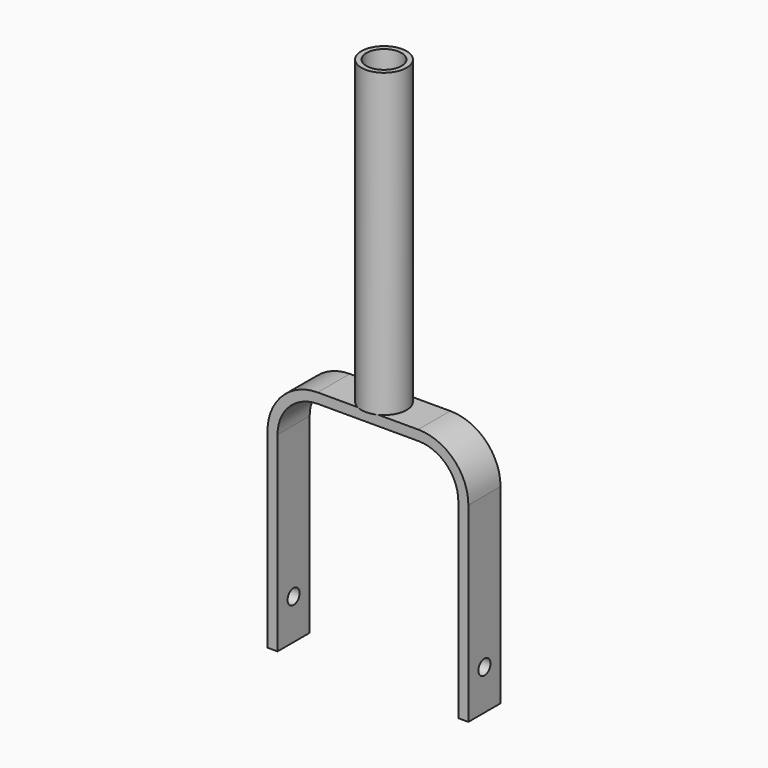
from build123d import *

# Parameters (mm, degrees)
F1_DEPTH = 12.7
F2_R     = 25.4
F3_R     = 31.75
F5_D     = 9.525
F7_D     = 12.7
F8_R     = 14.2875
F8_R_2   = 11.1125
F9_DEPTH = 190.5


with BuildPart() as f1:
    # F0 (on Front) → F1 (new body, symmetric)
    with BuildSketch(Plane.XZ):
        Polygon((0, 152.4), (0, 0), (6.35, 0), (6.35, 146.05), (120.65, 146.05), (120.65, 0), (127, 0), (127, 152.4), align=None)
    extrude(amount=F1_DEPTH, both=True)

    # F2
    f2_edges = [f1.edges().sort_by_distance(p)[0] for p in [
        (6.35, 0, 146.05),
        (120.65, 0, 146.05),
    ]]
    fillet(f2_edges, radius=F2_R)

    # F3
    f3_edges = [f1.edges().sort_by_distance(p)[0] for p in [
        (127, 0, 152.4),
        (0, 0, 152.4),
    ]]
    fillet(f3_edges, radius=F3_R)

    # F5 (through all)
    with Locations(Plane(origin=(0, 0, 0), x_dir=(0, 1, 0), z_dir=(-1, 0, 0))):
        with Locations((0, -25.4)):
            Hole(F5_D / 2)

    # F7 (through all)
    with Locations(Plane.XY.offset(152.4)):
        with Locations((63.5, 0)):
            Hole(F7_D / 2)

    # F8 (on face) → F9 (join)
    with BuildSketch(Plane.XY.offset(152.4)):
        with Locations((63.5, 0)):
            Circle(F8_R)
        with Locations((63.5, 0)):
            Circle(F8_R_2, mode=Mode.SUBTRACT)
    extrude(amount=F9_DEPTH)


solid = f1.part
